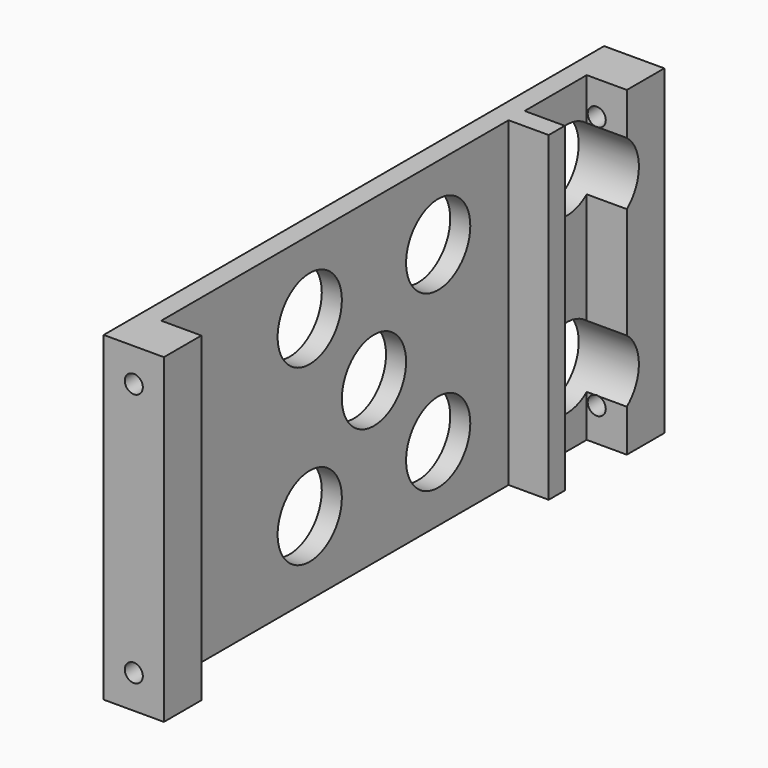
from build123d import *

# Parameters (mm, degrees)
F0_W      = 9
F0_H      = 93.5
F1_DEPTH  = 48
F2_R      = 1.35
F3_DEPTH  = 8
F4_R      = 1.35
F5_DEPTH  = 8
F6_R      = 1.75
F7_DEPTH  = 9.001
F8_R      = 6
F9_DEPTH  = 9.001
F10_W     = 6
F10_H     = 64.9
F10_H_2   = 11.6
F11_DEPTH = 48.001
F12_W     = 12
F12_H     = 12
F13_DEPTH = 6
F14_W     = 3
F14_H     = 4
F15_DEPTH = 12
F16_R     = 3.5
F17_DEPTH = 30.001


with BuildPart() as f1:
    # F0 (on Top) → F1 (new body)
    with BuildSketch(Plane.XY):
        Rectangle(F0_W, F0_H)
    extrude(amount=F1_DEPTH)

    # F2 (on face) → F3 (cut)
    with BuildSketch(Plane.XZ.offset(46.75)):
        with Locations((0, 43)):
            Circle(F2_R)
        with Locations((0, 5)):
            Circle(F2_R)
    extrude(amount=-F3_DEPTH, mode=Mode.SUBTRACT)

    # F4 (on face) → F5 (cut)
    with BuildSketch(Plane(origin=(0, 46.75, 0), x_dir=(-1, 0, 0), z_dir=(0, 1, 0))):
        with Locations((0, 43)):
            Circle(F4_R)
        with Locations((0, 5)):
            Circle(F4_R)
    extrude(amount=-F5_DEPTH, mode=Mode.SUBTRACT)

    # F6 (on face) → F7 (cut, through all)
    with BuildSketch(Plane.YZ.offset(4.5)):
        with Locations((-36.15, 43)):
            Circle(F6_R)
        with Locations((-36.15, 24)):
            Circle(F6_R)
        with Locations((-36.15, 5)):
            Circle(F6_R)
    extrude(amount=-F7_DEPTH, mode=Mode.SUBTRACT)

    # F8 (on face) → F9 (cut, through all)
    with BuildSketch(Plane.YZ.offset(4.5)):
        with Locations((-12, 11)):
            Circle(F8_R)
        with Locations((0, 24)):
            Circle(F8_R)
        with Locations((-12, 37)):
            Circle(F8_R)
        with Locations((12, 11)):
            Circle(F8_R)
        with Locations((12, 37)):
            Circle(F8_R)
        with Locations((36, 11)):
            Circle(F8_R)
        with Locations((36, 37)):
            Circle(F8_R)
    extrude(amount=-F9_DEPTH, mode=Mode.SUBTRACT)

    # F10 (on face) → F11 (cut, through all)
    with BuildSketch(Plane.XY.offset(48)):
        with Locations((1.5, -7.3)):
            Rectangle(F10_W, F10_H)
        with Locations((1.5, 33.95)):
            Rectangle(F10_W, F10_H_2)
    extrude(amount=-F11_DEPTH, mode=Mode.SUBTRACT)

    # F12 (on face) → F13 (join)
    with BuildSketch(Plane(origin=(-4.5, 0, 0), x_dir=(0, -1, 0), z_dir=(-1, 0, 0))):
        with Locations((24.75, 24)):
            Rectangle(F12_W, F12_H)
    extrude(amount=F13_DEPTH)

    # F14 (on face) → F15 (cut, through all)
    with BuildSketch(Plane.XZ.offset(30.75)):
        with Locations((-6, 23.958516)):
            Rectangle(F14_W, F14_H)
    extrude(amount=-F15_DEPTH, mode=Mode.SUBTRACT)

    # F16 (on face) → F17 (cut, through all)
    with BuildSketch(Plane.XY.offset(30)):
        with Locations((-10.5, -24.75)):
            Circle(F16_R)
    extrude(amount=-F17_DEPTH, mode=Mode.SUBTRACT)


solid = f1.part
